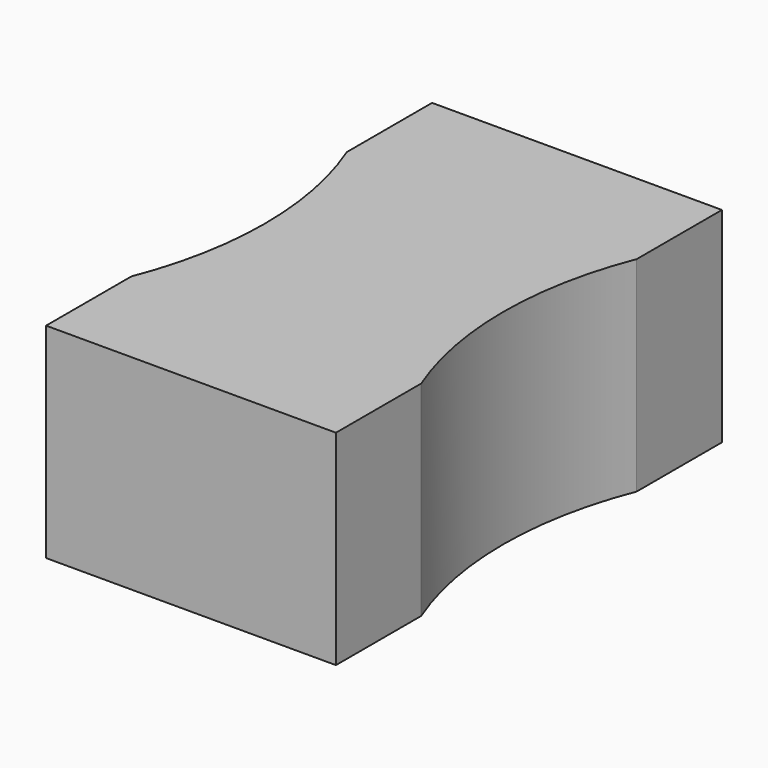
from build123d import *

# Parameters (mm, degrees)
F0_W     = 15.44
F0_H     = 10.9
F1_DEPTH = 25.7
F3_DEPTH = 10.901


with BuildPart() as f1:
    # F0 (on Front) → F1 (new body)
    with BuildSketch(Plane.XZ):
        with Locations((-7.72, 5.45)):
            Rectangle(F0_W, F0_H)
    extrude(amount=F1_DEPTH)

    # F2 (on face) → F3 (cut, through all)
    with BuildSketch(Plane.XY.offset(10.9)):
        with BuildLine():
            ThreePointArc((-15.44, -20.0224689612), (-14.4177983566, -16.5007875863), (-14.073, -12.85))
            ThreePointArc((-14.073, -12.85), (-14.4177983566, -9.1992124137), (-15.44, -5.6775310388))
            Line((-15.44, -5.6775310388), (-15.44, -20.0224689612))
        make_face()
        with BuildLine():
            Line((0, -20.0224689612), (0, -5.6775310388))
            ThreePointArc((0, -5.6775310388), (-1.367, -12.85), (0, -20.0224689612))
        make_face()
    extrude(amount=-F3_DEPTH, mode=Mode.SUBTRACT)


solid = f1.part
